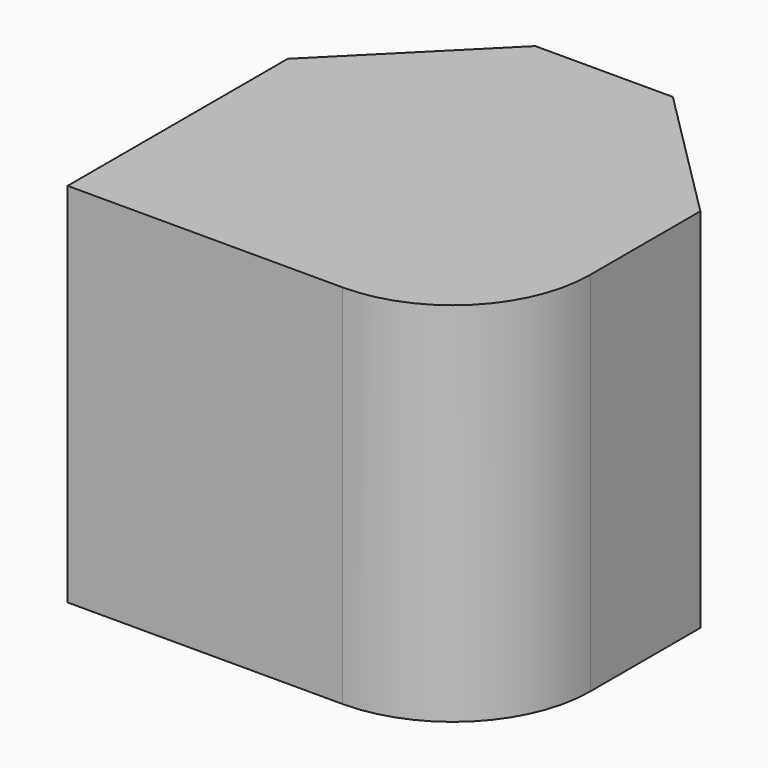
from build123d import *

# Parameters (mm, degrees)
F1_DEPTH = 40


with BuildPart() as f1:
    # F0 (on Top) → F1 (new body)
    with BuildSketch(Plane.XY):
        with BuildLine():
            Line((0, 30), (0, 0))
            Line((0, 0), (30, 0))
            ThreePointArc((30, 0), (40.606601, 4.393399), (44.999999, 15))
            Line((44.999999, 15), (44.999999, 30))
            Line((44.999999, 30), (29.999999, 44.999999))
            Line((29.999999, 44.999999), (14.999999, 44.999999))
            Line((14.999999, 44.999999), (0, 30))
        make_face()
    extrude(amount=F1_DEPTH)


solid = f1.part
